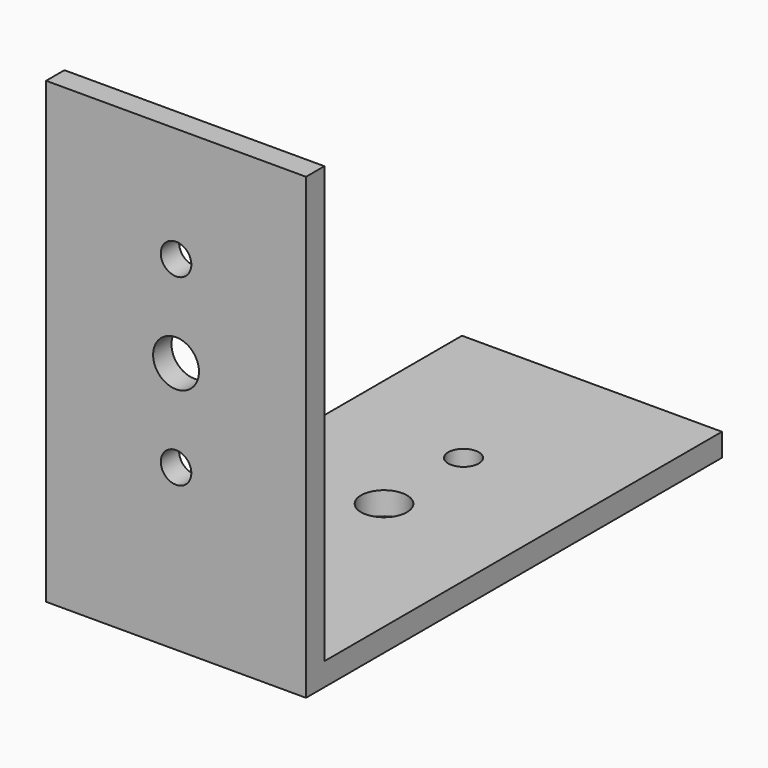
from build123d import *

# Parameters (mm, degrees)
SKETCH_W      = 17
SKETCH_H      = 34
SKETCH_R      = 1.5
SKETCH_R_2    = 1
PAD_DEPTH     = 1.5
SKETCH001_W   = 17
SKETCH001_H   = 1.5
PAD001_DEPTH  = 30
SKETCH002_R   = 1.5
SKETCH002_R_2 = 1
POCKET_DEPTH  = 34.001


with BuildPart() as part:
    # Sketch → Pad (new body)
    with BuildSketch(Plane.XY):
        with Locations((8.5, 17)):
            Rectangle(SKETCH_W, SKETCH_H)
        with Locations((8.5, 17)):
            Circle(SKETCH_R, mode=Mode.SUBTRACT)
        with Locations((8.5, 10.5)):
            Circle(SKETCH_R_2, mode=Mode.SUBTRACT)
        with Locations((8.5, 23.5)):
            Circle(SKETCH_R_2, mode=Mode.SUBTRACT)
    extrude(amount=PAD_DEPTH)

    # Sketch001 → Pad001 (new body)
    with BuildSketch(Plane.XY):
        with Locations((8.5, 0.75)):
            Rectangle(SKETCH001_W, SKETCH001_H)
    extrude(amount=PAD001_DEPTH)

    # Sketch002 → Pocket (cut, through all)
    with BuildSketch(Plane.XZ):
        with Locations((8.5, 16.5)):
            Circle(SKETCH002_R)
        with Locations((8.5, 10.5)):
            Circle(SKETCH002_R_2)
        with Locations((8.5, 22.5)):
            Circle(SKETCH002_R_2)
    extrude(amount=-POCKET_DEPTH, mode=Mode.SUBTRACT)


solid = part.part
